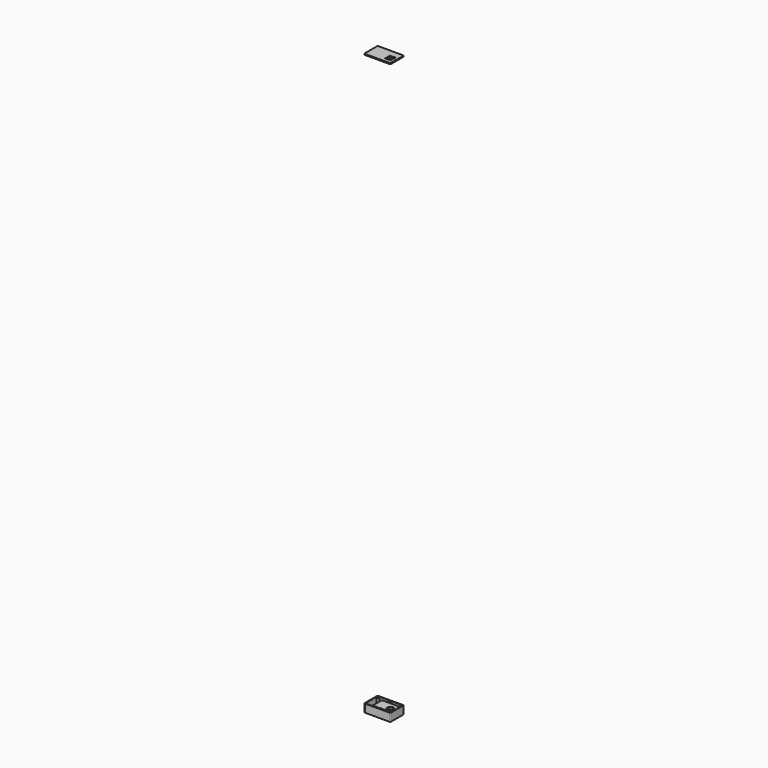
from build123d import *

# Parameters (mm, degrees)
PAD_DEPTH               = 77
POCKET_DEPTH            = 68.001
SKETCH002_R             = 3
PAD001_DEPTH            = 62
SKETCH002_MIRRORED_2_R  = 3
PAD001_MIRRORED_2_DEPTH = 62
SKETCH004_R             = 3
PAD002_DEPTH            = 62
SKETCH005_R             = 2.25
SKETCH005_R_2           = 2
PAD003_DEPTH            = 2
SKETCH007_W             = 178
SKETCH007_H             = 109
SKETCH007_R             = 28.5
PAD005_DEPTH            = 54
SKETCH008_W             = 176.272423
SKETCH008_H             = 107.053562
POCKET001_DEPTH         = 48
PAD004_DEPTH            = 9.625
POCKET002_DEPTH         = 9.625
LINEARPATTERN_COUNT     = 20
LINEARPATTERN_PITCH     = 3.157895


with BuildPart() as body:
    # Sketch → Pad (new body)
    with BuildSketch(Plane.XY):
        with BuildLine():
            Line((125, -72), (125, 72))
            ThreePointArc((125, 72), (122.656854, 77.656854), (117, 80))
            Line((117, 80), (-117, 80))
            ThreePointArc((-117, 80), (-122.656854, 77.656854), (-125, 72))
            Line((-125, 72), (-125, -72))
            ThreePointArc((-125, -72), (-122.656854, -77.656854), (-117, -80))
            Line((-117, -80), (117, -80))
            ThreePointArc((117, -80), (122.656854, -77.656854), (125, -72))
        make_face()
    extrude(amount=PAD_DEPTH)

    # Sketch001 → Pocket (cut, through all)
    with BuildSketch(Plane.XY.offset(9)):
        with BuildLine():
            Line((119, -72), (119, 72))
            ThreePointArc((119, 72), (118.414214, 73.414214), (117, 74))
            Line((117, 74), (-117, 74))
            ThreePointArc((-117, 74), (-118.414214, 73.414214), (-119, 72))
            Line((-119, 72), (-119, -72))
            ThreePointArc((-119, -72), (-118.414214, -73.414214), (-117, -74))
            Line((-117, -74), (117, -74))
            ThreePointArc((117, -74), (118.414214, -73.414214), (119, -72))
        make_face()
    extrude(amount=POCKET_DEPTH, mode=Mode.SUBTRACT)

    # Sketch002 → Pad001 (join)
    with BuildSketch(Plane.XY.offset(9)):
        with BuildLine():
            Line((-119, 74), (-104, 74))
            ThreePointArc((-119, 59), (-108.393398, 63.393398), (-104, 74))
            Line((-119, 74), (-119, 59))
        make_face()
        with Locations((-113, 68)):
            Circle(SKETCH002_R, mode=Mode.SUBTRACT)
    pad001 = extrude(amount=PAD001_DEPTH)

    # Sketch002 Mirrored 2 → Pad001 Mirrored 2 (add)
    with BuildSketch(Plane(origin=(0, 0, 9), x_dir=(-1, 0, 0), z_dir=(0, 0, -1))):
        with BuildLine():
            Line((-119, 74), (-104, 74))
            ThreePointArc((-119, 59), (-108.393398, 63.393398), (-104, 74))
            Line((-119, 74), (-119, 59))
        make_face()
        with Locations((-113, 68)):
            Circle(SKETCH002_MIRRORED_2_R, mode=Mode.SUBTRACT)
    pad001_mirrored_2 = extrude(amount=-PAD001_MIRRORED_2_DEPTH)

    # Mirrored001: Pad001, Pad001 Mirrored 2 across Sketch002 H_Axis
    add(pad001.mirror(Plane(origin=(0, 0, 9), x_dir=(0, 0, 1), z_dir=(0, 1, 0))))
    add(pad001_mirrored_2.mirror(Plane(origin=(0, 0, 9), x_dir=(0, 0, 1), z_dir=(0, 1, 0))))

    # Sketch004 → Pad002 (join)
    with BuildSketch(Plane.XY.offset(9)):
        with BuildLine():
            Line((-15, 74), (15, 74))
            ThreePointArc((-15, 74), (0, 59), (15, 74))
        make_face()
        with Locations((0, 68)):
            Circle(SKETCH004_R, mode=Mode.SUBTRACT)
    pad002 = extrude(amount=PAD002_DEPTH)

    # Mirrored002: Pad002 across XZ
    add(pad002.mirror(Plane.XZ))


with BuildPart() as body001:
    # Sketch005 → Pad003 (new body)
    with BuildSketch(Plane.XY.offset(13)):
        with BuildLine():
            Line((-98.25, -54.5), (-98.25, 54.5))
            Line((-98.25, 54.5), (98.25, 54.5))
            Line((98.25, 54.5), (98.25, 48))
            Line((98.25, 48), (95.75, 48))
            ThreePointArc((95.75, 48), (93.75, 46), (95.75, 44))
            Line((95.75, 44), (98.25, 44))
            Line((98.25, 44), (98.25, -54.5))
            Line((98.25, -54.5), (-98.25, -54.5))
        make_face()
        with Locations((-93.25, -49.5)):
            Circle(SKETCH005_R, mode=Mode.SUBTRACT)
        with Locations((-35.75, 44.5)):
            Circle(SKETCH005_R_2, mode=Mode.SUBTRACT)
        with Locations((90.75, 44.5)):
            Circle(SKETCH005_R_2, mode=Mode.SUBTRACT)
        with Locations((90.75, -40.5)):
            Circle(SKETCH005_R_2, mode=Mode.SUBTRACT)
        with Locations((-35.75, -40.5)):
            Circle(SKETCH005_R_2, mode=Mode.SUBTRACT)
    extrude(amount=PAD003_DEPTH)

    # Sketch007 (on Face15 of Pad003) → Pad005 (join)
    with BuildSketch(Plane.XY.offset(15)):
        with Locations((9.36, 0)):
            Rectangle(SKETCH007_W, SKETCH007_H)
        with Locations((55.36, -11.5)):
            Circle(SKETCH007_R, mode=Mode.SUBTRACT)
    extrude(amount=PAD005_DEPTH)

    # Sketch008 (on Face5 of Pad005) → Pocket001 (cut)
    with BuildSketch(Plane.XY.offset(14)):
        with Locations((9.419559, -0.035154)):
            Rectangle(SKETCH008_W, SKETCH008_H)
    extrude(amount=POCKET001_DEPTH, mode=Mode.SUBTRACT)


with BuildPart() as body001_1:
    # Body001 placement: moved
    add(body001.part.moved(Location((16, 0, 0))))


with BuildPart() as body002:
    # Sketch006 (on Sketch) → Pad004 (new body)
    with BuildSketch(Plane.XY.offset(5544)):
        with BuildLine():
            Line((125, -72), (125, 72))
            ThreePointArc((125, 72), (122.656854, 77.656854), (117, 80))
            Line((117, 80), (-117, 80))
            ThreePointArc((-117, 80), (-122.656854, 77.656854), (-125, 72))
            Line((-125, 72), (-125, -72))
            ThreePointArc((-125, -72), (-122.656854, -77.656854), (-117, -80))
            Line((-117, -80), (117, -80))
            ThreePointArc((117, -80), (122.656854, -77.656854), (125, -72))
        make_face()
    extrude(amount=PAD004_DEPTH)

    # Sketch009 (on Face10 of Pad004) → Pocket002 (cut)
    with BuildSketch(Plane.XY.offset(5553.625)):
        with BuildLine():
            ThreePointArc((44.884094, 17.094302), (43.884094, 16.094302), (44.884094, 15.094302))
            Line((44.884094, 15.094302), (98.884094, 15.094302))
            ThreePointArc((98.884094, 15.094302), (99.884094, 16.094302), (98.884094, 17.094302))
            Line((98.884094, 17.094302), (44.884094, 17.094302))
        make_face()
    pocket002 = extrude(amount=-POCKET002_DEPTH, mode=Mode.SUBTRACT)

    # LinearPattern: Pocket002 ×20
    with Locations(*[(0, -i * LINEARPATTERN_PITCH, 0) for i in range(1, LINEARPATTERN_COUNT)]):
        add(pocket002, mode=Mode.SUBTRACT)


solid = Compound([body.part, body001_1.part, body002.part])
